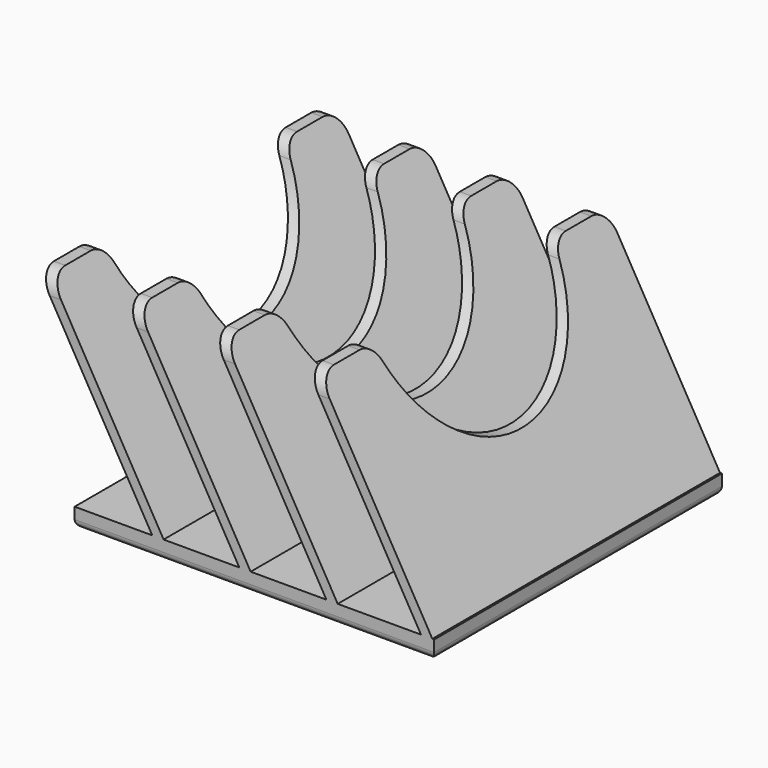
from build123d import *

# Parameters (mm, degrees)
SKETCH024_W     = 95
SKETCH024_H     = 95
PAD016_DEPTH    = 5
PAD017_DEPTH    = 95
SKETCH029_R     = 30
POCKET009_DEPTH = 104.501
FILLET022_R     = 5
FILLET023_R     = 2


with BuildPart() as part:
    # Sketch024 → Pad016 (new body)
    with BuildSketch(Plane.XY):
        Rectangle(SKETCH024_W, SKETCH024_H)
    extrude(amount=PAD016_DEPTH)

    # Sketch025 (on DatumPlane) → Pad017 (join)
    with BuildSketch(Plane(origin=(0, 47.5, 0), x_dir=(-1, 0, 0), z_dir=(0, 1, 0))):
        Polygon((-47, 5), (-17, 56.961524), (-14, 56.961524), (-44, 5), align=None)
        Polygon((-22, 5), (8, 56.961524), (11, 56.961524), (-19, 5), align=None)
        Polygon((1, 5), (31, 56.961524), (34, 56.961524), (4, 5), align=None)
        Polygon((24, 5), (54, 56.961524), (57, 56.961524), (27, 5), align=None)
    extrude(amount=-PAD017_DEPTH)

    # Sketch029 (on DatumPlane) → Pocket009 (cut, through all)
    with BuildSketch(Plane.YZ.offset(47.5)):
        with Locations((0, 60)):
            Circle(SKETCH029_R)
    extrude(amount=-POCKET009_DEPTH, mode=Mode.SUBTRACT)

    # Fillet022
    fillet022_edges = [part.edges().sort_by_distance(p)[0] for p in [
        (15.5, -47.5, 56.961524),
        (15.5, -29.845731, 56.961524),
        (-9.5, -47.5, 56.961524),
        (-9.5, -29.845731, 56.961524),
        (-32.5, -47.5, 56.961524),
        (-32.5, -29.845731, 56.961524),
        (-55.5, -47.5, 56.961524),
        (-55.5, -29.845731, 56.961524),
        (15.5, 29.845731, 56.961524),
        (15.5, 47.5, 56.961524),
        (-9.5, 29.845731, 56.961524),
        (-9.5, 47.5, 56.961524),
        (-32.5, 29.845731, 56.961524),
        (-32.5, 47.5, 56.961524),
        (-55.5, 29.845731, 56.961524),
        (-55.5, 47.5, 56.961524),
    ]]
    fillet(fillet022_edges, radius=FILLET022_R)

    # Fillet023
    fillet023_edges = [part.edges().sort_by_distance(p)[0] for p in [
        (0, -47.5, 0),
        (47.5, 0, 0),
        (0, 47.5, 0),
        (-47.5, 0, 0),
    ]]
    fillet(fillet023_edges, radius=FILLET023_R)


with BuildPart() as part_1:
    # Body011 placement: moved
    add(part.part.moved(Location((48, 233, 0))))


solid = part_1.part
